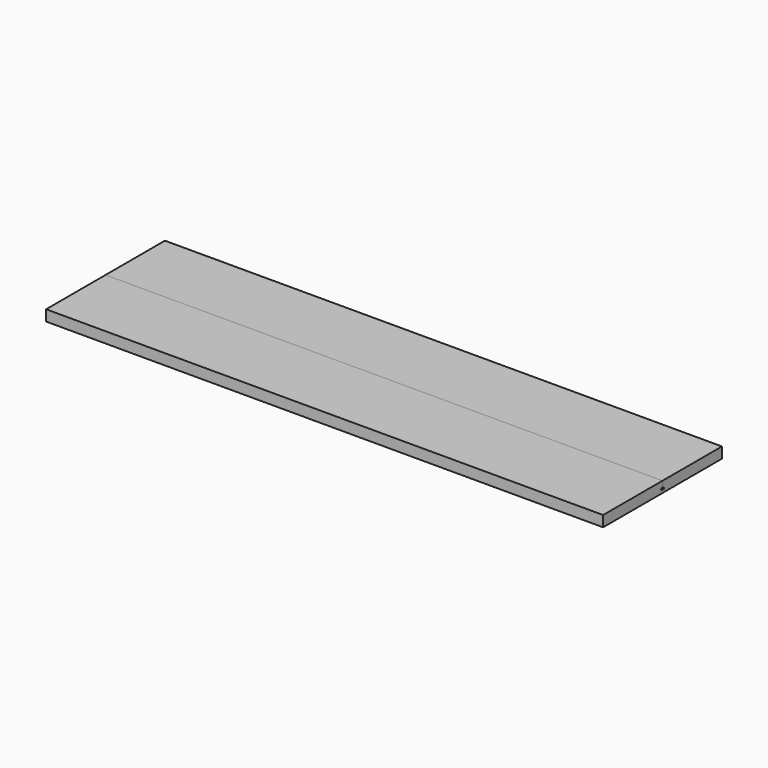
from build123d import *

# Parameters (mm, degrees)
F0_W      = 1143
F0_H      = 22.225
F1_DEPTH  = 152.4
F1_FACE_W = 1143
F1_FACE_H = 22.225
F2_DEPTH  = 152.4
F6_DEPTH  = 25.4


with BuildPart() as f1:
    # F0 (on Front) → F1 (new body)
    with BuildSketch(Plane.XZ):
        with Locations((-571.5, -11.1125)):
            Rectangle(F0_W, F0_H)
    extrude(amount=-F1_DEPTH)


with BuildPart() as f2:
    # F1_face (on face) → F2 (new body)
    with BuildSketch(Plane(origin=(-571.5, 0, -11.1125), x_dir=(1, 0, 0), z_dir=(0, -1, 0))):
        Rectangle(F1_FACE_W, F1_FACE_H)
    extrude(amount=F2_DEPTH)


with BuildPart() as f5_tool:
    # F5: sweep along a path in F3
    with BuildLine(Plane.XZ) as f5_path:
        ThreePointArc((0, -15.875), (-571.5, -6.35), (-1143, -15.875))
    # F4 (on face) → F5 (sweep)
    with BuildSketch(Plane(origin=(-1143, 0, 0), x_dir=(0, -1, 0), z_dir=(-1, 0, 0))):
        with BuildLine():
            Line((0, -19.685), (0, -12.065))
            ThreePointArc((0, -12.065), (-3.81, -15.875), (0, -19.685))
        make_face()
        with BuildLine():
            ThreePointArc((0, -19.685), (2.694077, -18.569077), (3.81, -15.875))
            ThreePointArc((3.81, -15.875), (2.694077, -13.180923), (0, -12.065))
            Line((0, -12.065), (0, -19.685))
        make_face()
    sweep(path=f5_path.line)


with BuildPart() as f1_1:
    add(f1.part)

    # F5: cut by f5_tool
    add(f5_tool.part, mode=Mode.SUBTRACT)


with BuildPart() as f2_1:
    add(f2.part)

    # F5: cut by f5_tool
    add(f5_tool.part, mode=Mode.SUBTRACT)


with BuildPart() as f6_tool:
    # F4 (on face) → F6 (new body)
    with BuildSketch(Plane(origin=(-1143, 0, 0), x_dir=(0, -1, 0), z_dir=(-1, 0, 0))):
        with BuildLine():
            ThreePointArc((0, -19.685), (-3.81, -15.875), (0, -12.065))
            Line((0, -12.065), (0, -10.508593))
            Line((0, -10.508593), (-38.1, -10.508593))
            Line((-38.1, -10.508593), (-38.1, -20.668593))
            Line((-38.1, -20.668593), (0, -20.668593))
            Line((0, -20.668593), (0, -19.685))
        make_face()
        with BuildLine():
            ThreePointArc((0, -12.065), (2.694077, -13.180923), (3.81, -15.875))
            ThreePointArc((3.81, -15.875), (2.694077, -18.569077), (0, -19.685))
            Line((0, -19.685), (0, -20.668593))
            Line((0, -20.668593), (38.1, -20.668593))
            Line((38.1, -20.668593), (38.1, -10.508593))
            Line((38.1, -10.508593), (0, -10.508593))
            Line((0, -10.508593), (0, -12.065))
        make_face()
        with BuildLine():
            ThreePointArc((0, -19.685), (2.694077, -18.569077), (3.81, -15.875))
            ThreePointArc((3.81, -15.875), (2.694077, -13.180923), (0, -12.065))
            Line((0, -12.065), (0, -19.685))
        make_face()
        with BuildLine():
            Line((0, -19.685), (0, -12.065))
            ThreePointArc((0, -12.065), (-3.81, -15.875), (0, -19.685))
        make_face()
    extrude(amount=-F6_DEPTH)


with BuildPart() as f1_2:
    add(f1_1.part)

    # F6: cut by f6_tool
    add(f6_tool.part, mode=Mode.SUBTRACT)


with BuildPart() as f2_2:
    add(f2_1.part)

    # F6: cut by f6_tool
    add(f6_tool.part, mode=Mode.SUBTRACT)


solid = Compound([f1_2.part, f2_2.part])
